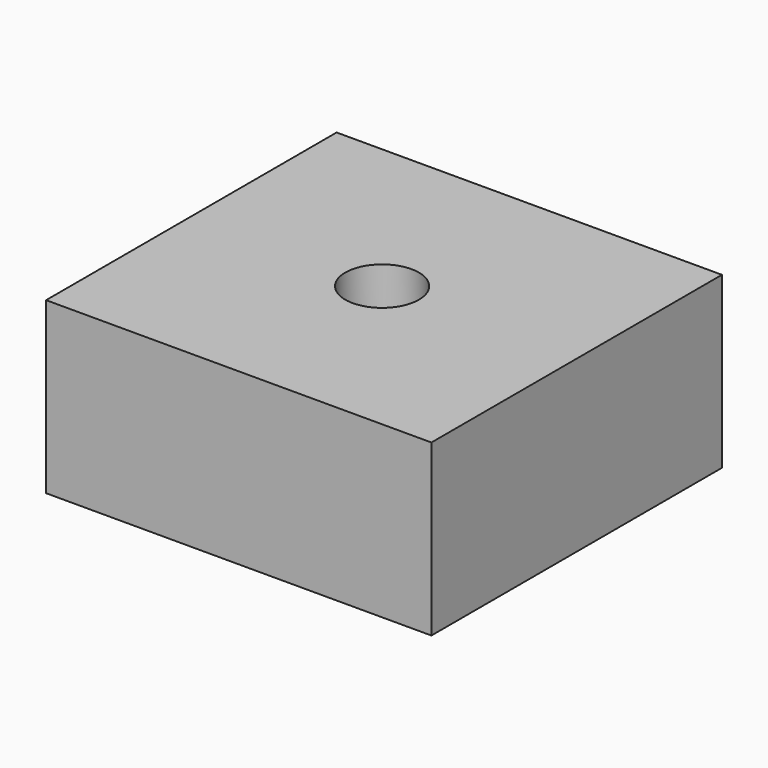
from build123d import *

# Parameters (mm, degrees)
F0_W     = 57.586816
F0_H     = 54.2743
F0_R     = 5.5
F1_DEPTH = 25.4
F2_R     = 5.5
F3_DEPTH = 6.35


with BuildPart() as f1:
    # F0 (on Top) → F1 (new body)
    with BuildSketch(Plane.XY):
        with Locations((0.382213, -0.127406)):
            Rectangle(F0_W, F0_H)
        Circle(F0_R, mode=Mode.SUBTRACT)
        Circle(F0_R)
    extrude(amount=F1_DEPTH)

    # F2 (on face) → F3 (cut)
    with BuildSketch(Plane.XY.offset(25.4)):
        Circle(F2_R)
    extrude(amount=-F3_DEPTH, mode=Mode.SUBTRACT)


solid = f1.part
